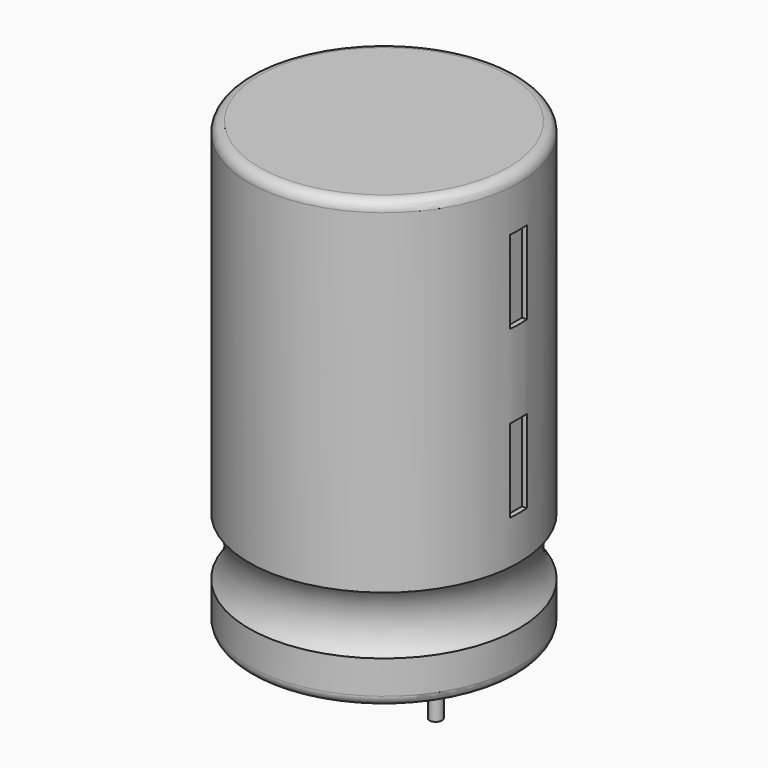
from build123d import *

# Parameters (mm, degrees)
CYLINDER002_R     = 0.3
CYLINDER002_DEPTH = 3
CYLINDER001_R     = 0.3
CYLINDER001_DEPTH = 3
BOX001_W          = 1
BOX001_H          = 1
BOX001_DEPTH      = 4
BOX_W             = 1
BOX_H             = 1
BOX_DEPTH         = 4
TORUS_R           = 2.2
CYLINDER_R        = 6.5
CYLINDER_DEPTH    = 21.5
FILLET_R          = 0.5


with BuildPart() as pin2:
    # Cylinder002 → Cylinder002 (new body)
    with BuildSketch(Plane(origin=(2.5, 0, -3), x_dir=(1, 0, 0), z_dir=(0, 0, 1))):
        Circle(CYLINDER002_R)
    extrude(amount=CYLINDER002_DEPTH)


with BuildPart() as pin1:
    # Cylinder001 → Cylinder001 (new body)
    with BuildSketch(Plane(origin=(-2.5, 0, -3), x_dir=(1, 0, 0), z_dir=(0, 0, 1))):
        Circle(CYLINDER001_R)
    extrude(amount=CYLINDER001_DEPTH)


with BuildPart() as box001:
    # Box001 → Box001 (new body)
    with BuildSketch(Plane(origin=(6.25, -0.5, 15), x_dir=(1, 0, 0), z_dir=(0, 0, 1))):
        with Locations((0.5, 0.5)):
            Rectangle(BOX001_W, BOX001_H)
    extrude(amount=BOX001_DEPTH)


with BuildPart() as box:
    # Box → Box (new body)
    with BuildSketch(Plane(origin=(6.25, -0.5, 7), x_dir=(1, 0, 0), z_dir=(0, 0, 1))):
        with Locations((0.5, 0.5)):
            Rectangle(BOX_W, BOX_H)
    extrude(amount=BOX_DEPTH)


with BuildPart() as ring:
    # Torus → Torus (revolve)
    with BuildSketch(Plane(origin=(0, 0, 3.5), x_dir=(1, 0, 0), z_dir=(0, -1, 0))):
        with Locations((8.2, 0)):
            Circle(TORUS_R)
    revolve(axis=Axis((0, 0, 3.5), (0, 0, 1)))


with BuildPart() as obj1:
    # Cylinder → Cylinder (new body)
    with BuildSketch(Plane.XY):
        Circle(CYLINDER_R)
    extrude(amount=CYLINDER_DEPTH)

    # Fillet
    fillet_edges = [obj1.edges().sort_by_distance(p)[0] for p in [
        (-6.5, 0, 21.5),
        (-6.5, 0, 0),
    ]]
    fillet(fillet_edges, radius=FILLET_R)

    # Cut: cut Ring
    add(ring.part, mode=Mode.SUBTRACT)

    # Cut001: cut Box
    add(box.part, mode=Mode.SUBTRACT)

    # Cut002: cut Box001
    add(box001.part, mode=Mode.SUBTRACT)

    # Fusion: union Pin1+
    add(pin1.part)

    # Fusion001: union Pin2-
    add(pin2.part)


solid = obj1.part
